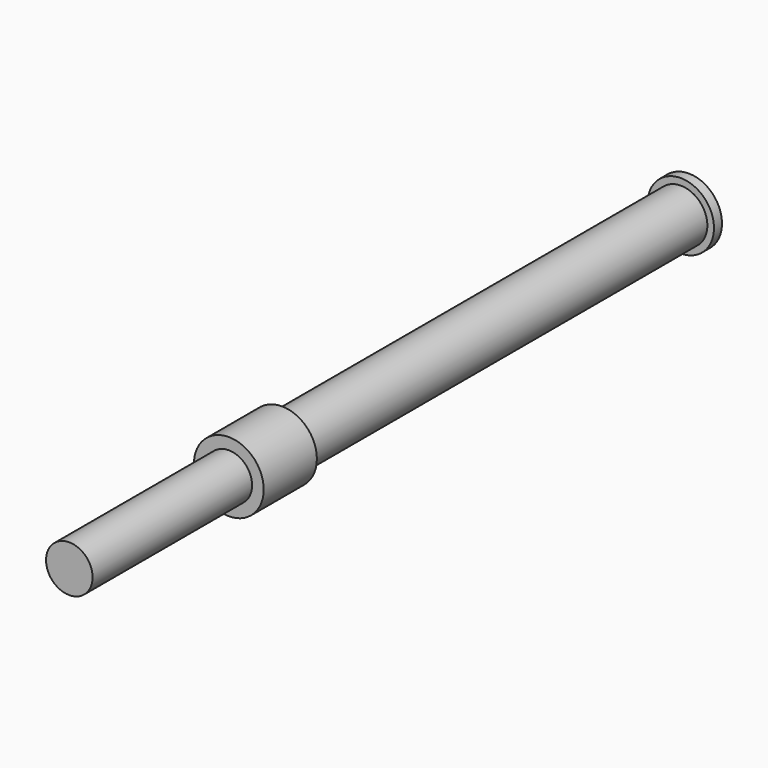
from build123d import *

# Parameters (mm, degrees)
F0_R     = 10.5
F1_DEPTH = 20
F2_R     = 7
F3_DEPTH = 60
F4_R     = 8
F5_R     = 8
F6_DEPTH = 150
F7_R     = 10
F8_DEPTH = 3


with BuildPart() as f1:
    # F0 (on Front) → F1 (new body)
    with BuildSketch(Plane.XZ):
        Circle(F0_R)
    extrude(amount=F1_DEPTH)

    # F2 (on face) → F3 (join)
    with BuildSketch(Plane.XZ.offset(20)):
        Circle(F2_R)
    extrude(amount=F3_DEPTH)

    # F4 (on face) + F5 (on face) → F6 (join)
    with BuildSketch(Plane(origin=(0, 0, 0), x_dir=(-1, 0, 0), z_dir=(0, 1, 0))):
        Circle(F4_R)
    with BuildSketch(Plane(origin=(0, 0, 0), x_dir=(-1, 0, 0), z_dir=(0, 1, 0))):
        Circle(F5_R)
    extrude(amount=F6_DEPTH)

    # F7 (on face) → F8 (join)
    with BuildSketch(Plane(origin=(0, 150, 0), x_dir=(-1, 0, 0), z_dir=(0, 1, 0))):
        Circle(F7_R)
    extrude(amount=F8_DEPTH)


solid = f1.part
